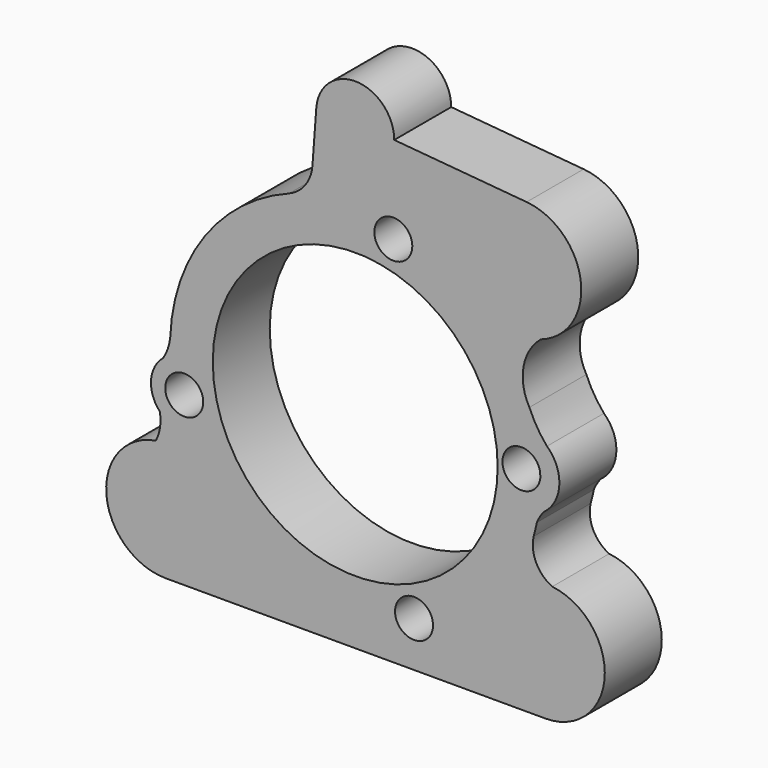
from build123d import *

# Parameters (mm, degrees)
F0_R     = 4
F0_R_2   = 30
F1_DEPTH = 15


with BuildPart() as f1:
    # F0 (on Front) → F1 (new body)
    with BuildSketch(Plane.XZ):
        with BuildLine():
            ThreePointArc((-9.004114, 43.199712), (-10.496055, 39.116903), (-13.910713, 36.427047))
            ThreePointArc((-13.910713, 36.427047), (-31.686122, 22.725038), (-38.964144, 1.494385))
            ThreePointArc((-38.964144, 1.494385), (-39.469059, -0.686602), (-40.436876, -2.705259))
            ThreePointArc((-40.436876, -2.705259), (-41.233049, -3.812005), (-42.169495, -4.802886))
            ThreePointArc((-42.169495, -4.802886), (-42.9532, -9.009714), (-41.141848, -12.886646))
            ThreePointArc((-41.141848, -12.886646), (-41.09859, -15.780911), (-41.986127, -18.536073))
            ThreePointArc((-41.986127, -18.536073), (-52.401697, -31.892725), (-39.943762, -43.368094))
            Line((-39.943762, -43.368094), (40.056238, -43.368094))
            ThreePointArc((40.056238, -43.368094), (52.535713, -31.58412), (41.485938, -18.450125))
            ThreePointArc((41.485938, -18.450125), (38.108631, -15.118692), (37.579055, -10.404438))
            ThreePointArc((37.579055, -10.404438), (37.935134, -9.020159), (38.24024, -7.623761))
            ThreePointArc((38.24024, -7.623761), (38.881996, -6.338259), (39.71253, -5.165835))
            ThreePointArc((39.71253, -5.165835), (42.988401, 0.868206), (40.380193, 7.219445))
            ThreePointArc((40.380193, 7.219445), (38.286237, 10.06954), (36.682732, 13.221757))
            ThreePointArc((36.682732, 13.221757), (35.434329, 20.355047), (39.08011, 26.612093))
            ThreePointArc((39.08011, 26.612093), (40.807647, 27.778386), (42.730803, 28.582183))
            ThreePointArc((42.730803, 28.582183), (47.093205, 42.101733), (36.09964, 51.098971))
            Line((36.09964, 51.098971), (8.217935, 53.540301))
            ThreePointArc((8.217935, 53.540301), (0.302884, 61.752652), (-8.195608, 54.145657))
            Line((-8.195608, 54.145657), (-9.004114, 43.199712))
        make_face()
        with Locations((-36.009086, -8.126945)):
            Circle(F0_R, mode=Mode.SUBTRACT)
        Circle(F0_R_2, mode=Mode.SUBTRACT)
        with Locations((12.386653, -33.801935)):
            Circle(F0_R, mode=Mode.SUBTRACT)
        with BuildLine():
            ThreePointArc((38.981952, 0.919292), (31.002751, 1.150506), (38.942868, 1.972484))
            ThreePointArc((38.942868, 1.972484), (38.965968, 1.44602), (38.981952, 0.919292))
        make_face(mode=Mode.SUBTRACT)
        with Locations((8.021532, 35.094943)):
            Circle(F0_R, mode=Mode.SUBTRACT)
        with BuildLine():
            ThreePointArc((-42.169495, -4.802886), (-41.233049, -3.812005), (-40.436876, -2.705259))
            ThreePointArc((-40.436876, -2.705259), (-41.406076, -3.669087), (-42.169495, -4.802886))
        make_face()
        with BuildLine():
            ThreePointArc((39.08011, 26.612093), (40.987047, 27.445947), (42.730803, 28.582183))
            ThreePointArc((42.730803, 28.582183), (40.807647, 27.778386), (39.08011, 26.612093))
        make_face()
    extrude(amount=F1_DEPTH)


solid = f1.part
